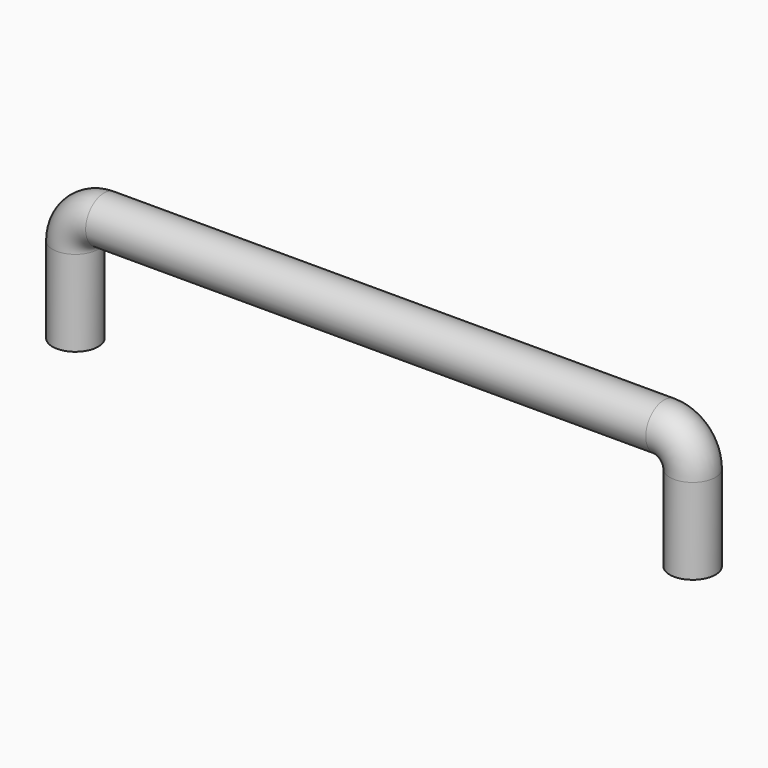
from build123d import *

# Parameters (mm, degrees)
F1_R = 0.508


with BuildPart() as f2:
    # F2: sweep along a path in F0
    with BuildLine(Plane.XZ) as f2_path:
        Line((0, 0), (0, 1.905))
        ThreePointArc((0, 1.905), (0.1859871939, 2.3540128061), (0.635, 2.54))
        Line((0.635, 2.54), (13.081, 2.54))
        ThreePointArc((13.081, 2.54), (13.5300128061, 2.3540128061), (13.716, 1.905))
        Line((13.716, 1.905), (13.716, 0))
    # F1 (on Top) → F2 (sweep)
    with BuildSketch(Plane.XY):
        Circle(F1_R)
    sweep(path=f2_path.line)


solid = f2.part
